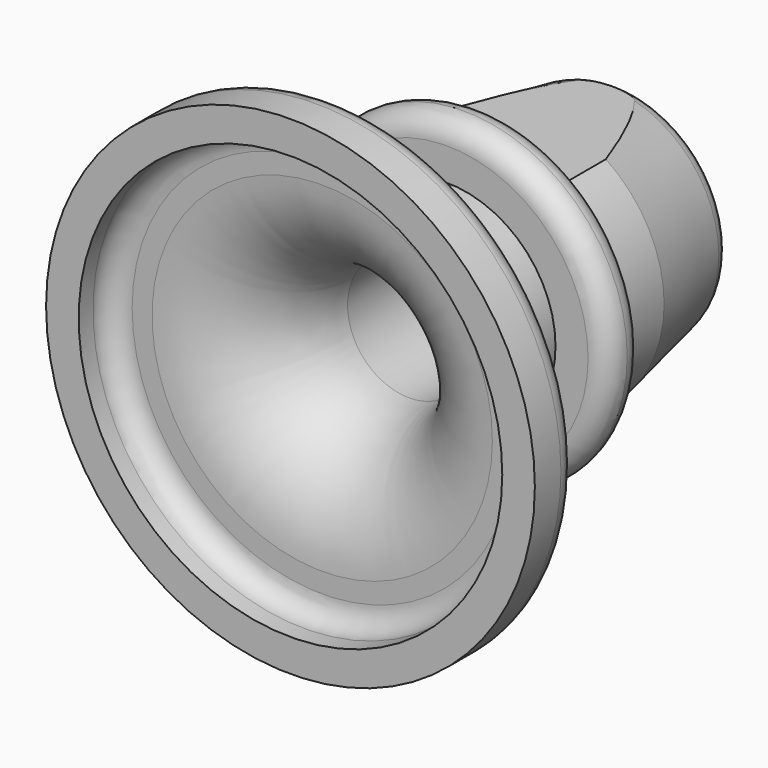
from build123d import *

# Parameters (mm, degrees)
F3_DEPTH = 25


with BuildPart() as f1:
    # F0 (on Top) → F1 (revolve)
    with BuildSketch(Plane.XY):
        with BuildLine():
            Line((19.5, 1.651759), (19.5, 0))
            Line((19.5, 0), (22.5, 0))
            Line((22.5, 0), (22.5, 3))
            ThreePointArc((22.5, 3), (21.914214, 4.414214), (20.5, 5))
            Line((20.5, 5), (20, 5))
            ThreePointArc((20, 5), (12.928932, 7.928932), (10, 15))
            Line((10, 15), (10, 18))
            Line((10, 18), (13, 18))
            ThreePointArc((13, 18), (14.414214, 18.585786), (15, 20))
            ThreePointArc((15, 20), (14.414214, 21.414214), (13, 22))
            Line((13, 22), (12, 22))
            Line((12, 22), (12, 28))
            Line((12, 28), (10.321554, 36.392232))
            ThreePointArc((10.321554, 36.392232), (9.62837, 37.546684), (8.360392, 38))
            Line((8.360392, 38), (2.360392, 38))
            Line((2.360392, 38), (2.360392, 26.87756))
            Line((2.360392, 26.87756), (5.667194, 26.87756))
            Line((5.667194, 26.87756), (5.667194, 13.651759))
            ThreePointArc((5.667194, 13.651759), (8.596126, 6.580692), (15.667194, 3.651759))
            Line((15.667194, 3.651759), (17.5, 3.651759))
            ThreePointArc((17.5, 3.651759), (18.914214, 3.065973), (19.5, 1.651759))
        make_face()
    revolve(axis=Axis((0, 19.886955, 0), (0, -1, 0)))

    # F2 (on face) → F3 (cut)
    with BuildSketch(Plane(origin=(0, 22, 0), x_dir=(-1, 0, 0), z_dir=(0, 1, 0))):
        with BuildLine():
            ThreePointArc((6.63325, 10), (0, 12), (-6.63325, 10))
            Line((-6.63325, 10), (6.63325, 10))
        make_face()
        with BuildLine():
            Line((6.63325, -10), (-6.63325, -10))
            ThreePointArc((-6.63325, -10), (0, -12), (6.63325, -10))
        make_face()
    extrude(amount=F3_DEPTH, mode=Mode.SUBTRACT)


solid = f1.part
